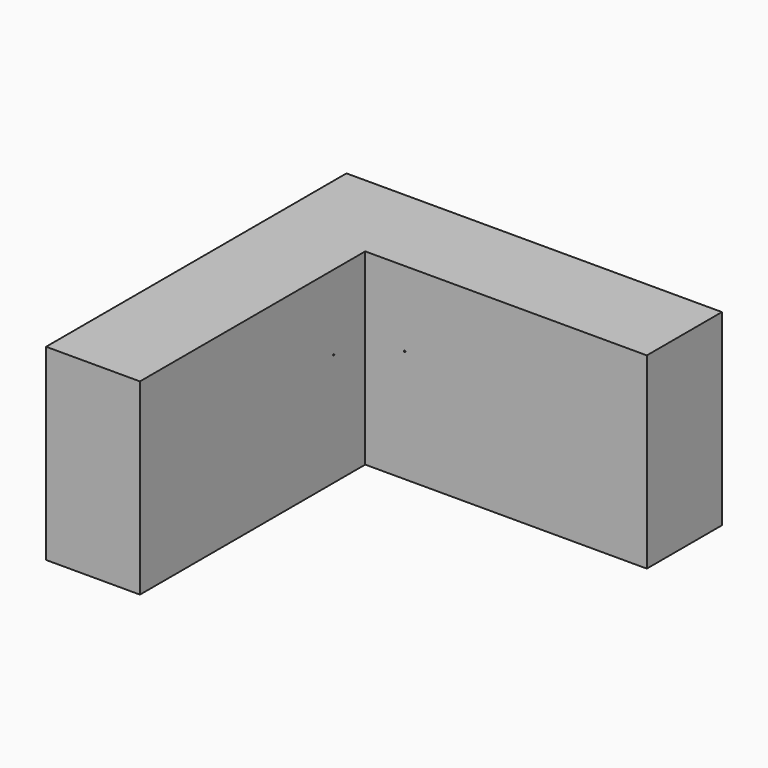
from build123d import *

# Parameters (mm, degrees)
F0_W     = 250
F0_H     = 750
F1_DEPTH = 500
F2_R     = 2
F3_DEPTH = 25
F4_R     = 2
F5_DEPTH = 25


with BuildPart() as f1:
    # F0 (on Top) → F1 (new body)
    with BuildSketch(Plane.XY):
        with Locations((-125, -375)):
            Rectangle(F0_W, F0_H)
        Polygon((-250, 0), (0, 0), (750, 0), (750, 250), (-250, 250), align=None)
    extrude(amount=F1_DEPTH)

    # F2 (on face) → F3 (cut)
    with BuildSketch(Plane.YZ):
        with Locations((-105, 300)):
            Circle(F2_R)
    extrude(amount=-F3_DEPTH, mode=Mode.SUBTRACT)

    # F4 (on face) → F5 (cut)
    with BuildSketch(Plane.XZ):
        with Locations((105, 300)):
            Circle(F4_R)
    extrude(amount=-F5_DEPTH, mode=Mode.SUBTRACT)


solid = f1.part
